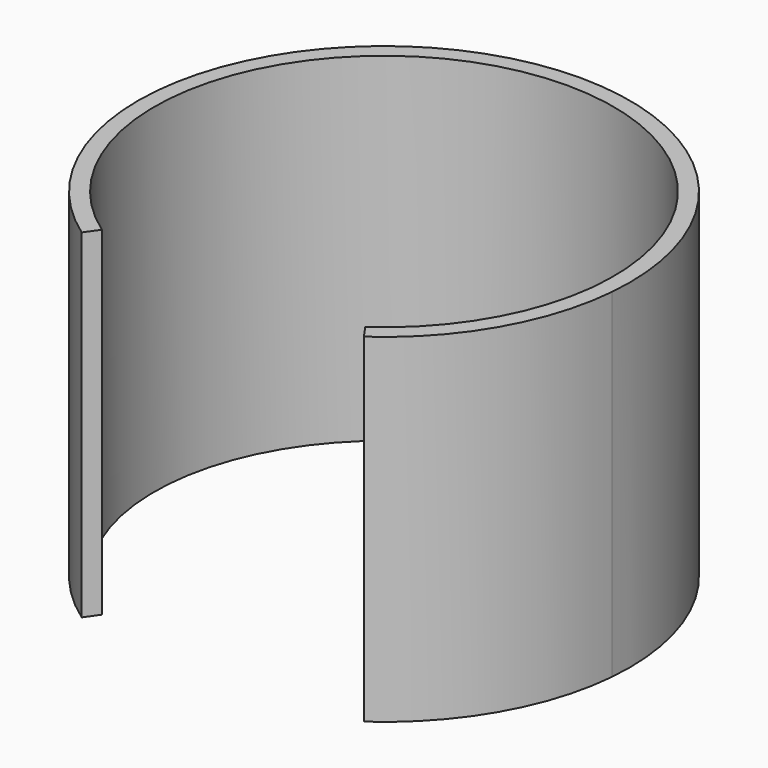
from build123d import *

# Parameters (mm, degrees)
F1_DEPTH = 62


with BuildPart() as f1:
    # F0 (on Top) → F1 (new body)
    with BuildSketch(Plane.XY):
        with BuildLine():
            Line((24.087916, -34.401109), (25.81094, -36.861842))
            ThreePointArc((25.81094, -36.861842), (38.971143, -22.5), (44.828761, -3.922008))
            Line((44.828761, -3.922008), (44.141387, -3.861871))
            ThreePointArc((44.141387, -3.861871), (38.373586, 22.155), (18.726215, 40.158498))
            Line((18.726215, 40.158498), (19.017822, 40.78385))
            ThreePointArc((19.017822, 40.78385), (0, 45), (-19.017822, 40.78385))
            Line((-19.017822, 40.78385), (-18.726215, 40.158498))
            ThreePointArc((-18.726215, 40.158498), (-19.990688, 39.54426), (-21.23504, 38.890219))
            ThreePointArc((-21.23504, 38.890219), (-38.373586, 22.155), (-44.297438, -1.055025))
            ThreePointArc((-44.297438, -1.055025), (-44.241678, -2.459686), (-44.141387, -3.861871))
            Line((-44.141387, -3.861871), (-44.828761, -3.922008))
            ThreePointArc((-44.828761, -3.922008), (-38.971143, -22.5), (-25.81094, -36.861842))
            Line((-25.81094, -36.861842), (-24.087916, -34.401109))
            ThreePointArc((-24.087916, -34.401109), (0, 41.996), (24.087916, -34.401109))
        make_face()
        with BuildLine():
            Line((44.141387, -3.861871), (44.828761, -3.922008))
            ThreePointArc((44.828761, -3.922008), (38.971143, 22.5), (19.017822, 40.78385))
            Line((19.017822, 40.78385), (18.726215, 40.158498))
            ThreePointArc((18.726215, 40.158498), (38.373586, 22.155), (44.141387, -3.861871))
        make_face()
        with BuildLine():
            Line((-18.726215, 40.158498), (-19.017822, 40.78385))
            ThreePointArc((-19.017822, 40.78385), (-38.971143, 22.5), (-44.828761, -3.922008))
            Line((-44.828761, -3.922008), (-44.141387, -3.861871))
            ThreePointArc((-44.141387, -3.861871), (-44.241678, -2.459686), (-44.297438, -1.055025))
            ThreePointArc((-44.297438, -1.055025), (-38.373586, 22.155), (-21.23504, 38.890219))
            ThreePointArc((-21.23504, 38.890219), (-19.990688, 39.54426), (-18.726215, 40.158498))
        make_face()
    extrude(amount=F1_DEPTH)


solid = f1.part
